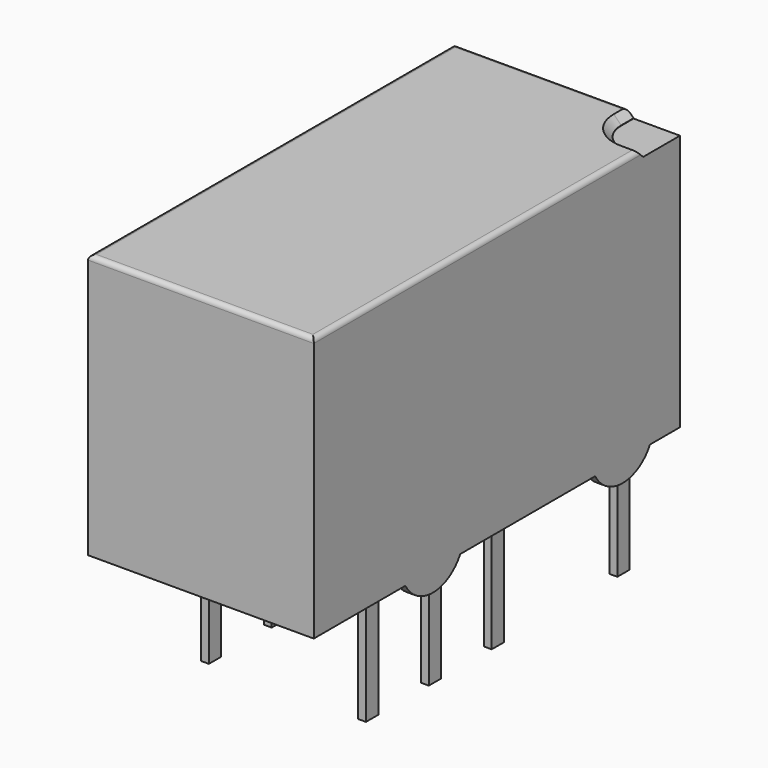
from build123d import *

# Parameters (mm, degrees)
PAD002_DEPTH = 0.3
SKETCH_W     = 14.8
SKETCH_H     = 7.3
PAD_DEPTH    = 8.55
POCKET_DEPTH = 0.25
CHAMFER_SIZE = 0.24
FILLET_R     = 0.15
SKETCH001_W  = 0.5
SKETCH001_H  = 0.25
PAD001_DEPTH = 4
PAD003_DEPTH = 0.3


with BuildPart() as pad002:
    # Sketch003 → Pad002 (new body)
    with BuildSketch(Plane.YZ.offset(6.19)):
        with BuildLine():
            ThreePointArc((-10.21, 1.27), (-8.94, 0), (-7.67, 1.27))
            Line((-10.21, 1.27), (-7.67, 1.27))
        make_face()
        with BuildLine():
            ThreePointArc((-2.54, 1.27), (-1.27, 0), (0, 1.27))
            Line((-2.54, 1.27), (0, 1.27))
        make_face()
    extrude(amount=-PAD002_DEPTH)


with BuildPart() as fillet_body:
    # Sketch → Pad (new body)
    with BuildSketch(Plane(origin=(0, 0, 0.65), x_dir=(0, -1, 0), z_dir=(0, 0, 1))):
        with Locations((6.35, 2.54)):
            Rectangle(SKETCH_W, SKETCH_H)
    extrude(amount=PAD_DEPTH)

    # Sketch002 → Pocket (cut)
    with BuildSketch(Plane(origin=(0, 0, 9.2), x_dir=(0, -1, 0), z_dir=(0, 0, 1))):
        with BuildLine():
            ThreePointArc((-0.55, 4.69), (0.157107, 4.982893), (0.45, 5.690001))
            Line((0.45, 6.19), (0.45, 5.690001))
            Line((-1.05, 6.19), (0.45, 6.19))
            Line((-1.05, 4.69), (-1.05, 6.19))
            Line((-0.55, 4.69), (-1.05, 4.69))
        make_face()
    extrude(amount=-POCKET_DEPTH, mode=Mode.SUBTRACT)

    # Chamfer
    chamfer_edges = [fillet_body.edges().sort_by_distance(p)[0] for p in [
        (4.982893, -0.157107, 9.2),
        (5.94, -0.45, 9.2),
        (4.69, 0.8, 9.2),
    ]]
    chamfer(chamfer_edges, length=CHAMFER_SIZE)

    # Fillet
    fillet_edges = [fillet_body.edges().sort_by_distance(p)[0] for p in [
        (6.19, -7.22, 9.2),
        (1.67, 1.05, 9.2),
        (-1.11, -6.35, 9.2),
        (2.54, -13.75, 9.2),
    ]]
    fillet(fillet_edges, radius=FILLET_R)


with BuildPart() as pad001:
    # Sketch001 → Pad001 (new body)
    with BuildSketch(Plane(origin=(0, 0, 0.6), x_dir=(0, -1, 0), z_dir=(0, 0, 1))):
        Rectangle(SKETCH001_W, SKETCH001_H)
        with Locations((5.08, 0)):
            Rectangle(SKETCH001_W, SKETCH001_H)
        with Locations((0, 5.08)):
            Rectangle(SKETCH001_W, SKETCH001_H)
        with Locations((5.08, 5.08)):
            Rectangle(SKETCH001_W, SKETCH001_H)
        with Locations((7.62, 0)):
            Rectangle(SKETCH001_W, SKETCH001_H)
        with Locations((7.62, 5.08)):
            Rectangle(SKETCH001_W, SKETCH001_H)
        with Locations((10.16, 5.08)):
            Rectangle(SKETCH001_W, SKETCH001_H)
        with Locations((10.16, 0)):
            Rectangle(SKETCH001_W, SKETCH001_H)
    extrude(amount=-PAD001_DEPTH)


with BuildPart() as obj1:
    # Sketch004 → Pad003 (new body)
    with BuildSketch(Plane.YZ.offset(-1.11)):
        with BuildLine():
            ThreePointArc((-10.21, 1.27), (-8.94, 0), (-7.67, 1.27))
            Line((-10.21, 1.27), (-7.67, 1.27))
        make_face()
        with BuildLine():
            ThreePointArc((-2.54, 1.27), (-1.27, 0), (0, 1.27))
            Line((-2.54, 1.27), (0, 1.27))
        make_face()
    extrude(amount=PAD003_DEPTH)

    # obj1: union Pad002, Fillet body, Pad001
    add(pad002.part)
    add(fillet_body.part)
    add(pad001.part)


solid = obj1.part
